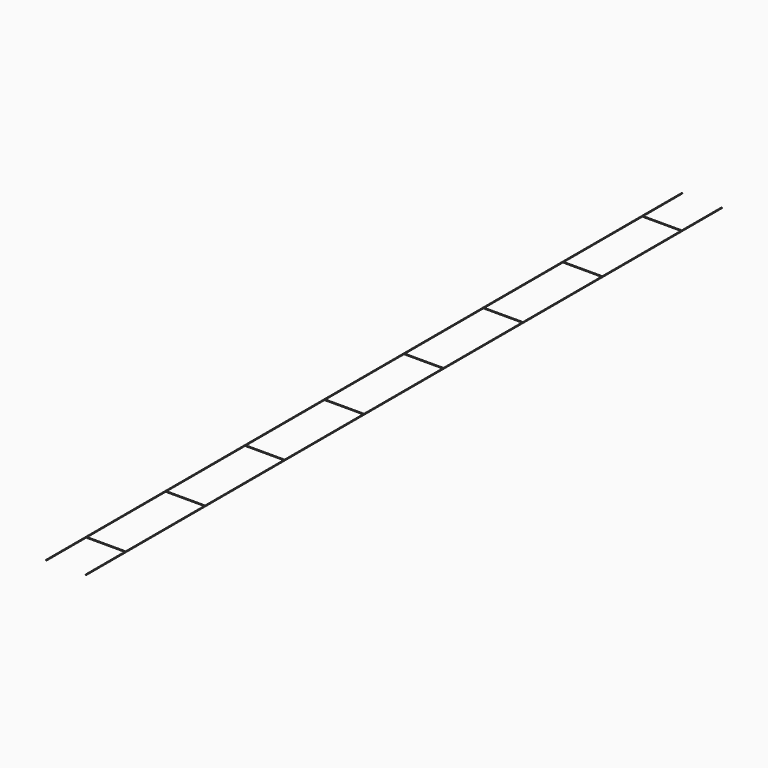
from build123d import *

# Parameters (mm, degrees)
F0_R     = 1.45288
F1_DEPTH = 3251.2
F3_DEPTH = 3251.2
F4_R     = 1.45288
F5_DEPTH = 161.925
F7_DEPTH = 161.925


with BuildPart() as f1:
    # F0 (on Front) → F1 (new body)
    with BuildSketch(Plane.XZ):
        Circle(F0_R)
    extrude(amount=F1_DEPTH)



with BuildPart() as f3:
    # F2 (on face) → F3 (new body)
    with BuildSketch(Plane(origin=(0, 0, 0), x_dir=(-1, 0, 0), z_dir=(0, 1, 0))):
        with BuildLine():
            ThreePointArc((163.37788, 0), (161.925, 1.45288), (160.47212, 0))
            ThreePointArc((160.47212, 0), (161.925, -1.45288), (163.37788, 0))
        make_face()
    extrude(amount=-F3_DEPTH)


with BuildPart() as f1_1:
    add(f1.part)

    add(f3.part)  # F5 merges F3
    # F4 (on Right) → F5 (join)
    with BuildSketch(Plane.YZ):
        with Locations((-203.2, 0)):
            Circle(F4_R)
    extrude(amount=-F5_DEPTH)


with BuildPart() as f7:
    # F6 (on Right) → F7 (new body)
    with BuildSketch(Plane.YZ):
        with BuildLine():
            Line((-609.6, 0), (-608.14712, 0))
            ThreePointArc((-608.14712, 0), (-609.6, 1.45288), (-611.05288, 0))
            Line((-611.05288, 0), (-609.6, 0))
        make_face()
        with BuildLine():
            ThreePointArc((-611.05288, 0), (-609.6, -1.45288), (-608.14712, 0))
            Line((-608.14712, 0), (-609.6, 0))
            Line((-609.6, 0), (-611.05288, 0))
        make_face()
        with BuildLine():
            Line((-1016, 0), (-1014.54712, 0))
            ThreePointArc((-1014.54712, 0), (-1016, 1.45288), (-1017.45288, 0))
            Line((-1017.45288, 0), (-1016, 0))
        make_face()
        with BuildLine():
            ThreePointArc((-1017.45288, 0), (-1016, -1.45288), (-1014.54712, 0))
            Line((-1014.54712, 0), (-1016, 0))
            Line((-1016, 0), (-1017.45288, 0))
        make_face()
        with BuildLine():
            Line((-1422.4, 0), (-1420.94712, 0))
            ThreePointArc((-1420.94712, 0), (-1422.4, 1.45288), (-1423.85288, 0))
            Line((-1423.85288, 0), (-1422.4, 0))
        make_face()
        with BuildLine():
            ThreePointArc((-1423.85288, 0), (-1422.4, -1.45288), (-1420.94712, 0))
            Line((-1420.94712, 0), (-1422.4, 0))
            Line((-1422.4, 0), (-1423.85288, 0))
        make_face()
        with BuildLine():
            Line((-1828.8, 0), (-1827.34712, 0))
            ThreePointArc((-1827.34712, 0), (-1828.8, 1.45288), (-1830.25288, 0))
            Line((-1830.25288, 0), (-1828.8, 0))
        make_face()
        with BuildLine():
            ThreePointArc((-1830.25288, 0), (-1828.8, -1.45288), (-1827.34712, 0))
            Line((-1827.34712, 0), (-1828.8, 0))
            Line((-1828.8, 0), (-1830.25288, 0))
        make_face()
        with BuildLine():
            Line((-2235.2, 0), (-2233.74712, 0))
            ThreePointArc((-2233.74712, 0), (-2235.2, 1.45288), (-2236.65288, 0))
            Line((-2236.65288, 0), (-2235.2, 0))
        make_face()
        with BuildLine():
            ThreePointArc((-2236.65288, 0), (-2235.2, -1.45288), (-2233.74712, 0))
            Line((-2233.74712, 0), (-2235.2, 0))
            Line((-2235.2, 0), (-2236.65288, 0))
        make_face()
        with BuildLine():
            Line((-2641.6, 0), (-2640.14712, 0))
            ThreePointArc((-2640.14712, 0), (-2641.6, 1.45288), (-2643.05288, 0))
            Line((-2643.05288, 0), (-2641.6, 0))
        make_face()
        with BuildLine():
            ThreePointArc((-2643.05288, 0), (-2641.6, -1.45288), (-2640.14712, 0))
            Line((-2640.14712, 0), (-2641.6, 0))
            Line((-2641.6, 0), (-2643.05288, 0))
        make_face()
        with BuildLine():
            Line((-3048, 0), (-3046.54712, 0))
            ThreePointArc((-3046.54712, 0), (-3048, 1.45288), (-3049.45288, 0))
            Line((-3049.45288, 0), (-3048, 0))
        make_face()
        with BuildLine():
            ThreePointArc((-3049.45288, 0), (-3048, -1.45288), (-3046.54712, 0))
            Line((-3046.54712, 0), (-3048, 0))
            Line((-3048, 0), (-3049.45288, 0))
        make_face()
    extrude(amount=-F7_DEPTH)


solid = Compound([f1_1.part, f7.part])
